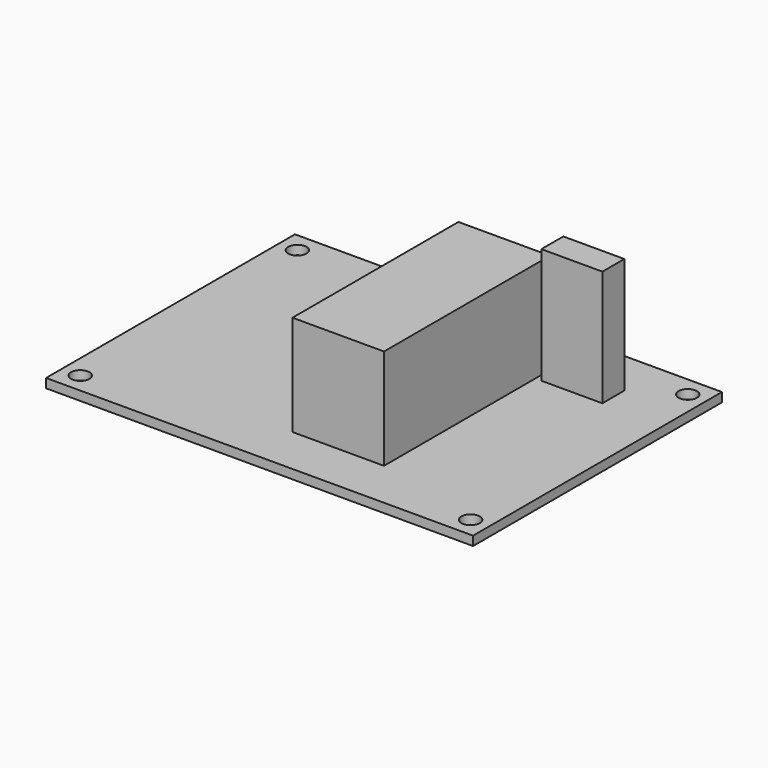
from build123d import *

# Parameters (mm, degrees)
F0_W     = 70
F0_H     = 51
F1_DEPTH = 1.5
F2_R     = 1.5
F3_DEPTH = 1.501
F4_W     = 15
F4_H     = 34
F5_DEPTH = 16.5
F6_W     = 10
F6_H     = 4.5
F7_DEPTH = 19


with BuildPart() as f1:
    # F0 (on Top) → F1 (new body)
    with BuildSketch(Plane.XY):
        with Locations((35, 25.5)):
            Rectangle(F0_W, F0_H)
    extrude(amount=F1_DEPTH)

    # F2 (on face) → F3 (cut, through all)
    with BuildSketch(Plane.XY.offset(1.5)):
        with Locations((67, 47.75)):
            Circle(F2_R)
        with Locations((67, 3.25)):
            Circle(F2_R)
        with Locations((3, 47.75)):
            Circle(F2_R)
        with Locations((3, 3.25)):
            Circle(F2_R)
    extrude(amount=-F3_DEPTH, mode=Mode.SUBTRACT)

    # F4 (on face) → F5 (join)
    with BuildSketch(Plane.XY.offset(1.5)):
        with Locations((41.5, 25)):
            Rectangle(F4_W, F4_H)
    extrude(amount=F5_DEPTH)

    # F6 (on face) → F7 (join)
    with BuildSketch(Plane.XY.offset(1.5)):
        with Locations((55, 41.25)):
            Rectangle(F6_W, F6_H)
    extrude(amount=F7_DEPTH)


solid = f1.part
